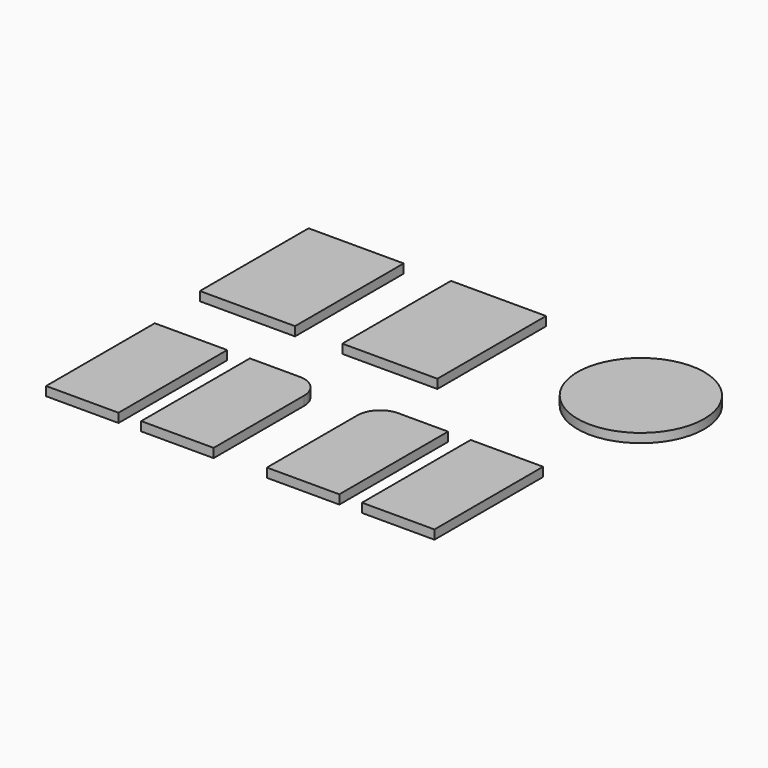
from build123d import *

# Parameters (mm, degrees)
F0_W     = 21
F0_H     = 30
F0_W_2   = 16
F0_R     = 14
F1_DEPTH = 2


with BuildPart() as f1:
    # F0 (on Top) → F1 (new body)
    with BuildSketch(Plane.XY):
        with Locations((-10.5, 15)):
            Rectangle(F0_W, F0_H)
        with Locations((20.941175, 15)):
            Rectangle(F0_W, F0_H)
        with Locations((-11.558821, -29.264703)):
            Rectangle(F0_W_2, F0_H)
        with BuildLine():
            Line((17.441179, -44.264703), (17.441179, -19.264703))
            ThreePointArc((17.441179, -19.264703), (15.976712, -15.729169), (12.441179, -14.264703))
            Line((12.441179, -14.264703), (1.441179, -14.264703))
            Line((1.441179, -14.264703), (1.441179, -44.264703))
            Line((1.441179, -44.264703), (17.441179, -44.264703))
        make_face()
        with BuildLine():
            Line((45.20588, -14.264703), (34.20588, -14.264703))
            ThreePointArc((34.20588, -14.264703), (30.670346, -15.729169), (29.20588, -19.264703))
            Line((29.20588, -19.264703), (29.20588, -44.264703))
            Line((29.20588, -44.264703), (45.20588, -44.264703))
            Line((45.20588, -44.264703), (45.20588, -14.264703))
        make_face()
        with Locations((58.20588, -29.264703)):
            Rectangle(F0_W_2, F0_H)
        with Locations((62.737748, 17.054869)):
            Circle(F0_R)
    extrude(amount=F1_DEPTH)


solid = f1.part
